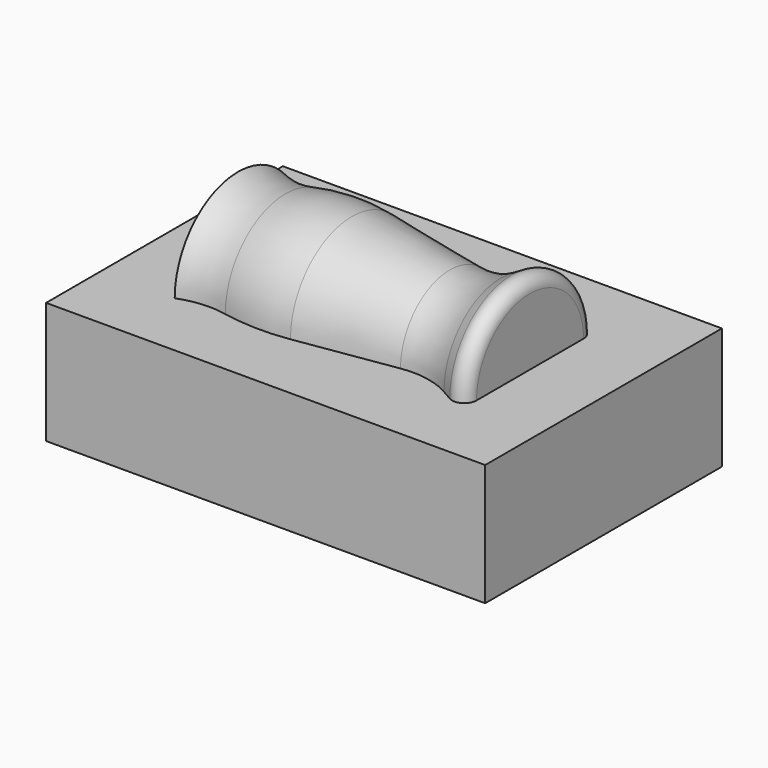
from build123d import *

# Parameters (mm, degrees)
F2_W     = 229.145602
F2_H     = 154.409528
F3_DEPTH = 63.5


with BuildPart() as f1:
    # F0 (on Top) → F1 (revolve)
    with BuildSketch(Plane.XY):
        with BuildLine():
            Line((-76.2, 41.275), (-76.2, 0))
            Line((-76.2, 0), (76.2, 0))
            Line((76.2, 0), (76.2, 34.925))
            ThreePointArc((76.2, 34.925), (73.031558, 40.42047), (66.68813, 40.431821))
            Line((66.68813, 40.431821), (61.044138, 37.191191))
            ThreePointArc((61.044138, 37.191191), (48.138002, 32.441823), (34.38737, 32.229841))
            Line((34.38737, 32.229841), (-16.733552, 40.122603))
            ThreePointArc((-16.733552, 40.122603), (-34.101978, 41.246891), (-51.39684, 39.293946))
            ThreePointArc((-51.39684, 39.293946), (-63.938355, 38.532462), (-76.2, 41.275))
        make_face()
    revolve(axis=Axis((0, 0, 0), (1, 0, 0)))

    # F2 (on Top) → F3 (join)
    with BuildSketch(Plane.XY):
        Rectangle(F2_W, F2_H)
    extrude(amount=-F3_DEPTH)


solid = f1.part
